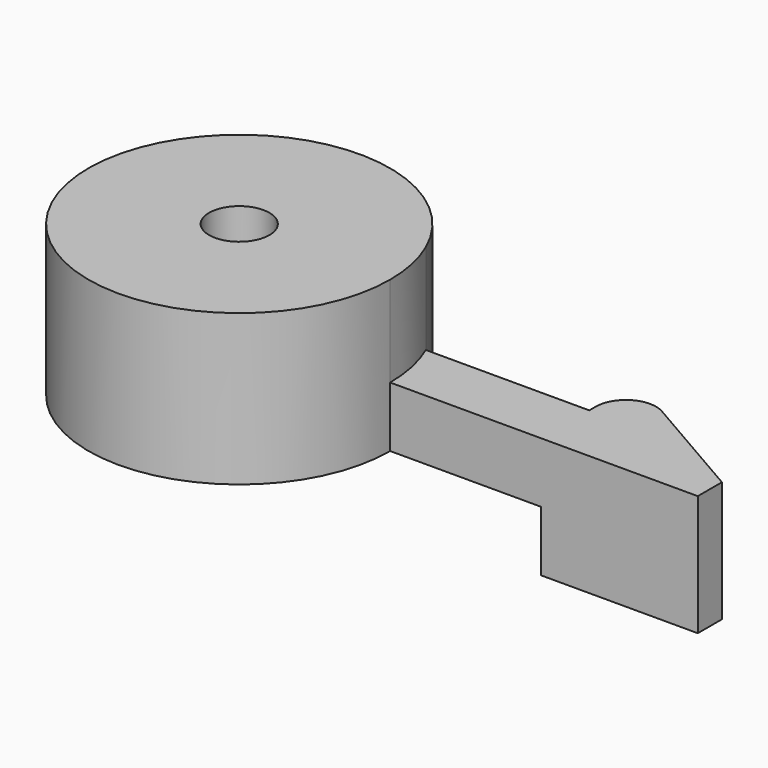
from build123d import *

# Parameters (mm, degrees)
F1_DEPTH = 5
F2_DEPTH = 2
F3_DEPTH = 2
F4_R     = 1
F5_D     = 2


with BuildPart() as f1:
    # F0 (on Top) → F1 (new body)
    with BuildSketch(Plane.XY):
        with BuildLine():
            ThreePointArc((4.582576, 2), (-4.894532, -1.021548), (5, 0))
            ThreePointArc((5, 0), (4.894532, 1.021548), (4.582576, 2))
        make_face()
    extrude(amount=F1_DEPTH)

    # F0 (on Top) → F2 (join)
    with BuildSketch(Plane.XY):
        with BuildLine():
            ThreePointArc((4.582576, 2), (4.894532, 1.021548), (5, 0))
            Line((5, 0), (10, 0))
            Line((10, 0), (10, 2))
            Line((10, 2), (4.582576, 2))
        make_face()
    extrude(amount=F2_DEPTH)

    # F0 (on Top) → F3 (join, symmetric)
    with BuildSketch(Plane.XY):
        Polygon((10, 2), (10, 0), (15.196152, 0), (15.196152, 1), (10, 4), align=None)
    extrude(amount=F3_DEPTH, both=True)

    # F4
    f4_edges = [f1.edges().sort_by_distance(p)[0] for p in [
        (10, 4, 0),
    ]]
    fillet(f4_edges, radius=F4_R)

    # F5 (through all)
    with Locations(Plane(origin=(0, 0, 0), x_dir=(1, 0, 0), z_dir=(0, 0, -1))):
        with Locations((0, 0)):
            Hole(F5_D / 2)


solid = f1.part
